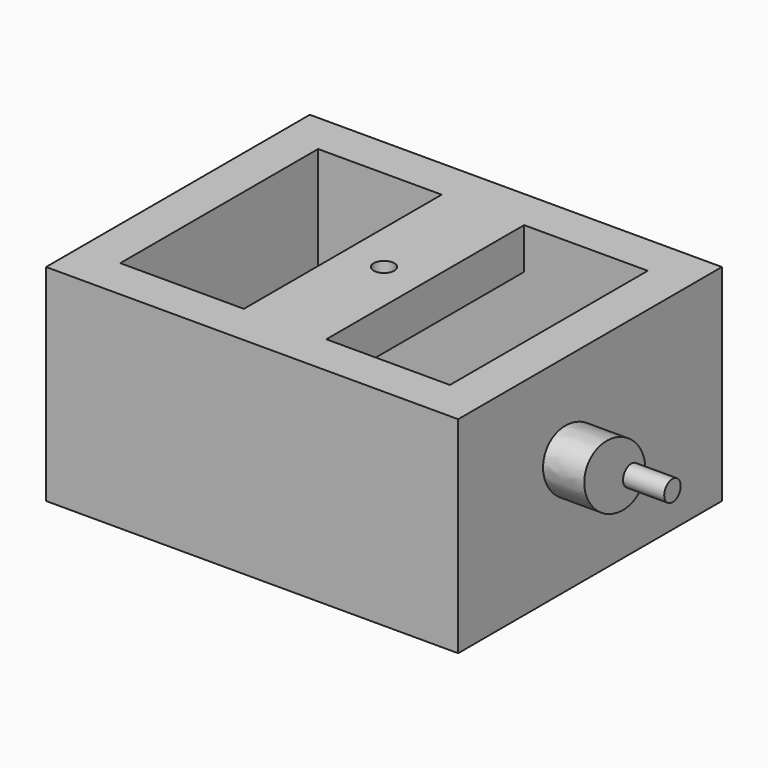
from build123d import *

# Parameters (mm, degrees)
F0_W          = 100
F0_H          = 50
F1_DEPTH      = 80
F2_W          = 30
F2_H          = 60
F3_DEPTH      = 50.001
F4_R          = 2.5
F5_DEPTH      = 100.001
F6_DEPTH      = 20
F6_DEPTH_BACK = 120
F7_R          = 2.5
F8_DEPTH      = 10
F9_W          = 20
F9_H          = 60
F10_DEPTH     = 40
F11_R         = 2.5
F12_DEPTH     = 50.001


with BuildPart() as f1:
    # F0 (on Front) → F1 (new body)
    with BuildSketch(Plane.XZ):
        Rectangle(F0_W, F0_H)
    extrude(amount=F1_DEPTH)

    # F2 (on face) → F3 (cut, through all)
    with BuildSketch(Plane.XY.offset(25)):
        with Locations((-25, -40)):
            Rectangle(F2_W, F2_H)
        with Locations((25, -40)):
            Rectangle(F2_W, F2_H)
    extrude(amount=-F3_DEPTH, mode=Mode.SUBTRACT)

    # F4 (on face) → F5 (cut, through all)
    with BuildSketch(Plane.YZ.offset(50)):
        with Locations((-40, 0)):
            Circle(F4_R)
    extrude(amount=-F5_DEPTH, mode=Mode.SUBTRACT)

    # F9 (on face) → F10 (cut)
    with BuildSketch(Plane(origin=(0, 0, -25), x_dir=(1, 0, 0), z_dir=(0, 0, -1))):
        with Locations((0, 40)):
            Rectangle(F9_W, F9_H)
    extrude(amount=-F10_DEPTH, mode=Mode.SUBTRACT)

    # F11 (on face) → F12 (cut, through all)
    with BuildSketch(Plane.XY.offset(25)):
        with Locations((0, -40)):
            Circle(F11_R)
    extrude(amount=-F12_DEPTH, mode=Mode.SUBTRACT)


with BuildPart() as f6:
    # F4 (on face) → F6 (new body, two sides)
    with BuildSketch(Plane.YZ.offset(50)) as f6_sk:
        with Locations((-40, 0)):
            Circle(F4_R)
    extrude(amount=F6_DEPTH)
    extrude(f6_sk.sketch, amount=-F6_DEPTH_BACK)


with BuildPart() as f8:
    # F7 (on face) → F8 (new body)
    with BuildSketch(Plane.YZ.offset(50)):
        with BuildLine():
            add(Edge.make_bspline(
                [(-36.8084795571, -3.7357643635), (-29.3575030837, 6.9053328352), (-45.3702719848, 10.1884307811), (-61.3830408858, 13.471528727), (-52.8212484581, -0.4526664176), (-44.2594560305, -14.3768615623), (-36.8084795571, -3.7357643635)],
                knots=[0, 0, 0, 2.0943951024, 2.0943951024, 4.1887902048, 4.1887902048, 6.2831853072, 6.2831853072, 6.2831853072], degree=2, weights=[1, 0.5, 1, 0.5, 1, 0.5, 1]))
        make_face()
        with Locations((-40, 0)):
            Circle(F7_R, mode=Mode.SUBTRACT)
    extrude(amount=F8_DEPTH)


solid = Compound([f1.part, f6.part, f8.part])
